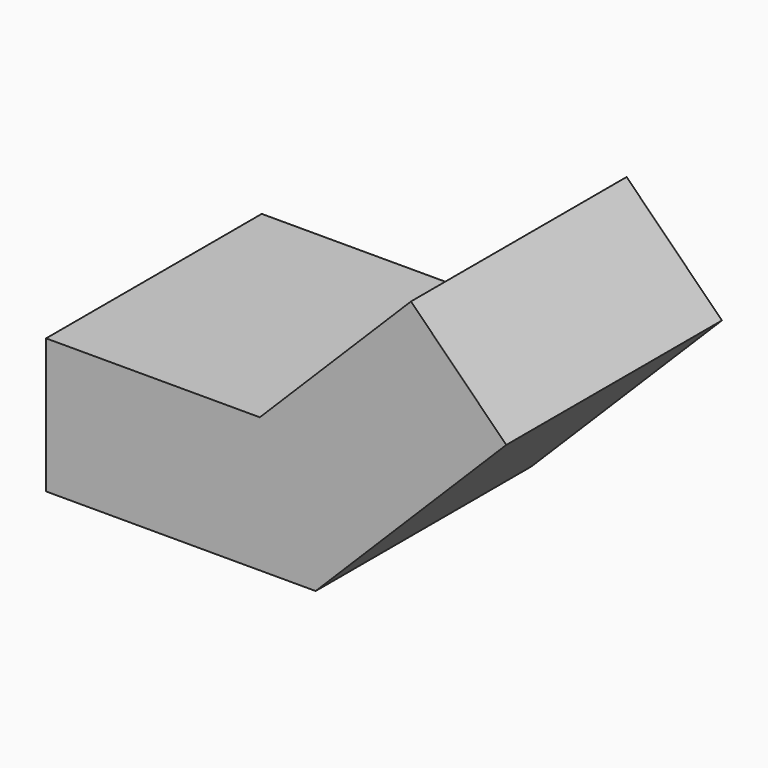
from build123d import *

# Parameters (mm, degrees)
PAD_DEPTH = 200


with BuildPart() as part:
    # Sketch → Pad (new body)
    with BuildSketch(Plane.XZ):
        Polygon((-200, 100), (-200, 0), (0, 0), (141.421356, 141.421356), (70.710678, 212.132034), (-41.421356, 100), align=None)
    extrude(amount=-PAD_DEPTH)


solid = part.part
